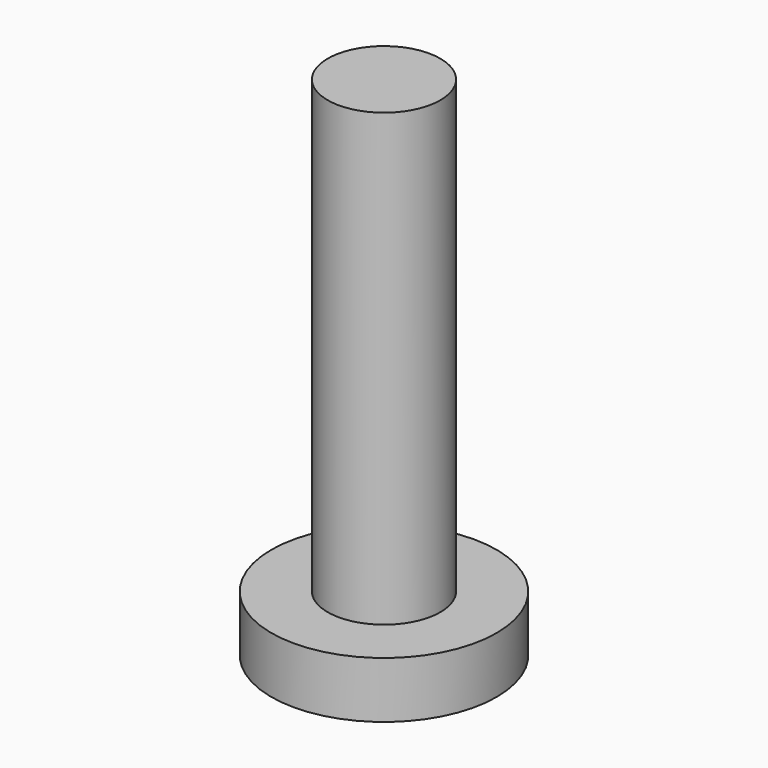
from build123d import *

# Parameters (mm, degrees)
F1_R     = 6.35
F2_DEPTH = 50.8
F0_R     = 12.7
F3_DEPTH = 6.35


with BuildPart() as f2:
    # F1 (on face) → F2 (new body)
    with BuildSketch(Plane.XY):
        Circle(F1_R)
    extrude(amount=F2_DEPTH)

    # F0 (on Top) → F3 (join)
    with BuildSketch(Plane.XY):
        Circle(F0_R)
    extrude(amount=-F3_DEPTH)


solid = f2.part
